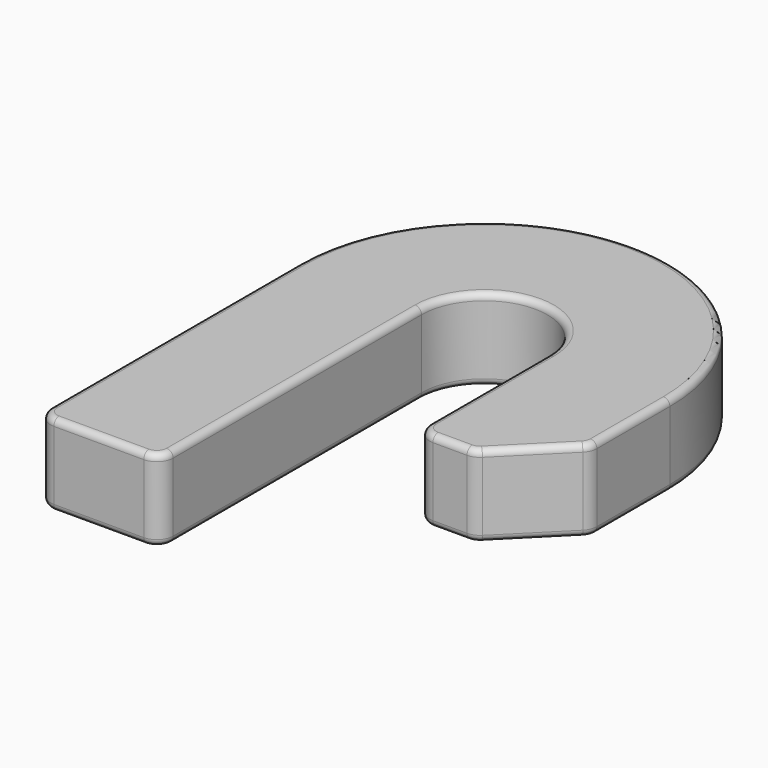
from build123d import *

# Parameters (mm, degrees)
F1_DEPTH = 6.35
F2_SIZE  = 5.08
F3_R     = 1.27
F4_R     = 0.508


with BuildPart() as f1:
    # F0 (on Top) → F1 (new body)
    with BuildSketch(Plane.XY):
        with BuildLine():
            Line((0, 25.4), (0, 0))
            Line((0, 0), (9.525, 0))
            Line((9.525, 0), (9.525, 25.4))
            ThreePointArc((9.525, 25.4), (14.4145, 30.2895), (19.304, 25.4))
            Line((19.304, 25.4), (19.304, 12.7))
            Line((19.304, 12.7), (28.829, 12.7))
            Line((28.829, 12.7), (28.829, 25.4))
            ThreePointArc((28.829, 25.4), (14.4145, 39.8145), (0, 25.4))
        make_face()
    extrude(amount=F1_DEPTH)

    # F2
    f2_edges = [f1.edges().sort_by_distance(p)[0] for p in [
        (28.829, 12.7, 3.175),
    ]]
    chamfer(f2_edges, length=F2_SIZE)

    # F3
    f3_edges = [f1.edges().sort_by_distance(p)[0] for p in [
        (23.749, 12.7, 3.175),
        (28.829, 17.78, 3.175),
        (19.304, 12.7, 3.175),
        (0, 0, 3.175),
        (9.525, 0, 3.175),
    ]]
    fillet(f3_edges, radius=F3_R)

    # F4
    f4_edges = [f1.edges().sort_by_distance(p)[0] for p in [
        (21.898474, 12.7, 6.35),
        (19.675974, 13.071974, 6.35),
        (23.708957, 12.796673, 6.35),
        (19.304, 19.685, 6.35),
        (26.289, 15.24, 6.35),
        (14.4145, 30.2895, 6.35),
        (28.732327, 17.820043, 6.35),
        (9.525, 13.335, 6.35),
        (28.829, 21.853026, 6.35),
        (9.153026, 0.371974, 6.35),
        (14.4145, 39.8145, 6.35),
        (4.7625, 0, 6.35),
        (0, 13.335, 6.35),
        (0.371974, 0.371974, 6.35),
        (21.898474, 12.7, 0),
        (19.675974, 13.071974, 0),
        (23.708957, 12.796673, 0),
        (19.304, 19.685, 0),
        (26.289, 15.24, 0),
        (14.4145, 30.2895, 0),
        (28.732327, 17.820043, 0),
        (9.525, 13.335, 0),
        (28.829, 21.853026, 0),
        (9.153026, 0.371974, 0),
        (14.4145, 39.8145, 0),
        (4.7625, 0, 0),
        (0, 13.335, 0),
        (0.371974, 0.371974, 0),
    ]]
    fillet(f4_edges, radius=F4_R)


solid = f1.part
